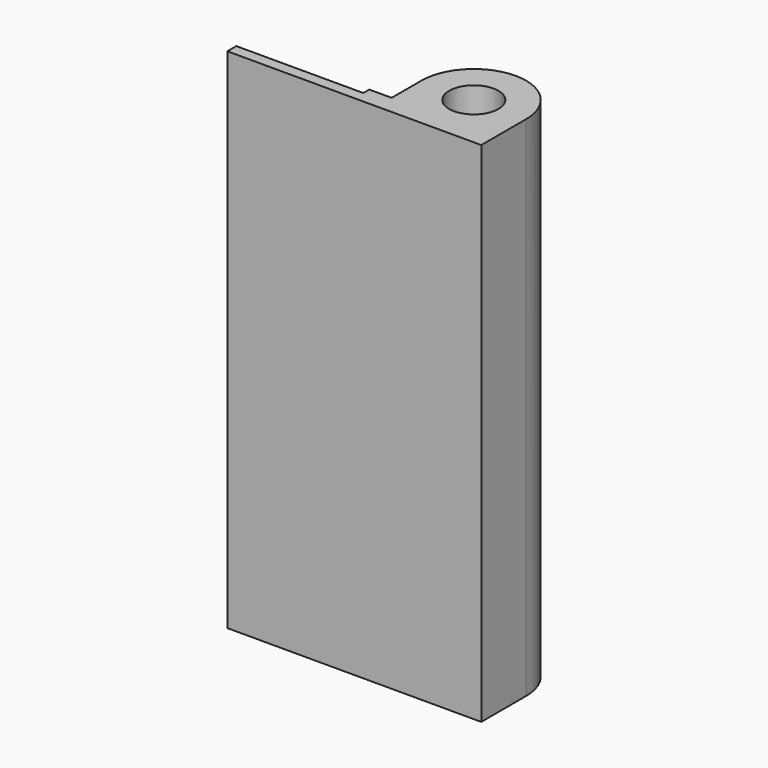
from build123d import *

# Parameters (mm, degrees)
SKETCH_R  = 3.3
PAD_DEPTH = 68


with BuildPart() as part:
    # Sketch → Pad (new body)
    with BuildSketch(Plane.XY):
        with BuildLine():
            Line((17, 1.5), (0, 1.5))
            Line((0, 1.5), (0, 0))
            Line((0, 0), (34, 0))
            Line((34, 0), (34, 7.499986))
            ThreePointArc((34, 7.499986), (27.000014, 14.5), (20, 7.500014))
            Line((20, 2.5), (20, 7.500014))
            Line((17, 2.5), (20, 2.5))
            Line((17, 1.5), (17, 2.5))
        make_face()
        with Locations((27, 7.5)):
            Circle(SKETCH_R, mode=Mode.SUBTRACT)
    extrude(amount=PAD_DEPTH)


solid = part.part
